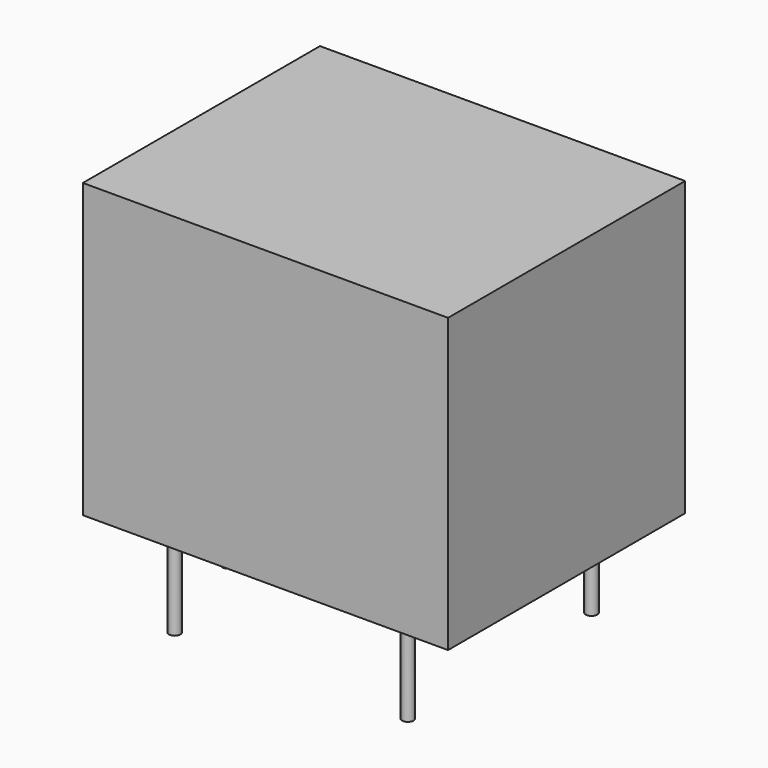
from build123d import *

# Parameters (mm, degrees)
F0_W     = 19.1
F0_H     = 15.5
F1_DEPTH = 15.3
F2_R     = 0.3
F3_DEPTH = 5


with BuildPart() as f1:
    # F0 (on Top) → F1 (new body)
    with BuildSketch(Plane.XY):
        Rectangle(F0_W, F0_H)
    extrude(amount=F1_DEPTH)

    # F2 (on face) → F3 (join)
    with BuildSketch(Plane(origin=(0, 0, 0), x_dir=(1, 0, 0), z_dir=(0, 0, -1))):
        with Locations((-6.15, 6)):
            Circle(F2_R)
        with Locations((-6.15, -6)):
            Circle(F2_R)
        with Locations((-8.15, 0)):
            Circle(F2_R)
        with Locations((6.05, 6)):
            Circle(F2_R)
        with Locations((6.05, -6)):
            Circle(F2_R)
    extrude(amount=F3_DEPTH)


solid = f1.part
